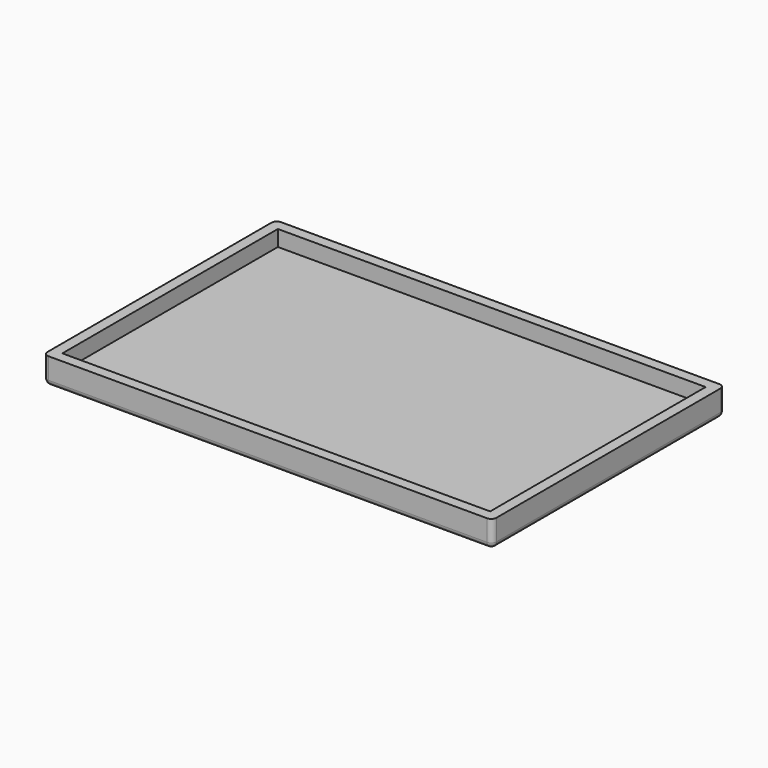
from build123d import *

# Parameters (mm, degrees)
F0_W     = 85
F0_H     = 55
F1_DEPTH = 5
F2_T     = -2
F3_R     = 1
F4_R     = 1
F5_R     = 1
F6_R     = 1


with BuildPart() as f1:
    # F0 (on Top) → F1 (new body)
    with BuildSketch(Plane.XY):
        Rectangle(F0_W, F0_H)
    extrude(amount=F1_DEPTH)

    # F2
    f2_openings = [f1.faces().sort_by_distance(p)[0] for p in [
        (0, 0, 5),
    ]]
    offset(amount=F2_T, openings=f2_openings)

    # F3
    f3_edges = [f1.edges().sort_by_distance(p)[0] for p in [
        (0, -27.5, 0),
    ]]
    fillet(f3_edges, radius=F3_R)

    # F4
    f4_edges = [f1.edges().sort_by_distance(p)[0] for p in [
        (-42.5, 0.5, 0),
    ]]
    fillet(f4_edges, radius=F4_R)

    # F5
    f5_edges = [f1.edges().sort_by_distance(p)[0] for p in [
        (42.5, 0.5, 0),
    ]]
    fillet(f5_edges, radius=F5_R)

    # F6
    f6_edges = [f1.edges().sort_by_distance(p)[0] for p in [
        (0, 27.5, 0),
    ]]
    fillet(f6_edges, radius=F6_R)


solid = f1.part
